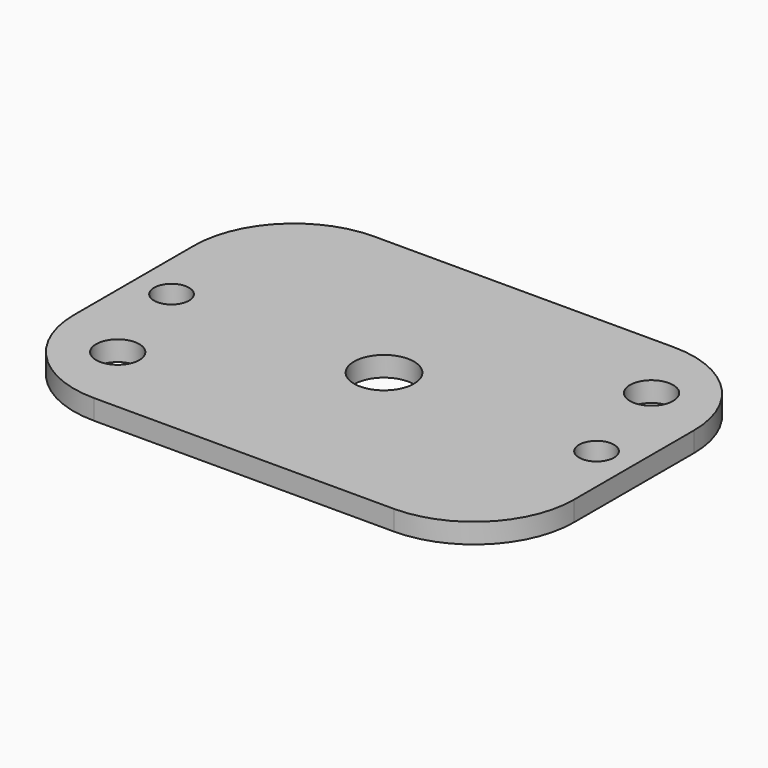
from build123d import *

# Parameters (mm, degrees)
F0_W      = 100
F0_H      = 70
F3_DEPTH  = 4
F2_R      = 4.322492
F4_DEPTH  = 5
F1_R      = 3.5
F5_DEPTH  = 5
F6_R      = 20
F7_R      = 20
F8_R      = 20
F9_R      = 20
F10_R     = 6
F11_DEPTH = 5


with BuildPart() as f3:
    # F0 (on Top) → F3 (new body)
    with BuildSketch(Plane.XY):
        Rectangle(F0_W, F0_H)
    extrude(amount=F3_DEPTH)

    # F2 (on Top) → F4 (cut)
    with BuildSketch(Plane.XY):
        with Locations((36.918391, 20.728212)):
            Circle(F2_R)
        with Locations((-36.812667, -20.548884)):
            Circle(F2_R)
    extrude(amount=F4_DEPTH, mode=Mode.SUBTRACT)

    # F1 (on face) → F5 (cut)
    with BuildSketch(Plane.XY):
        with Locations((-42.48777, 0)):
            Circle(F1_R)
        with Locations((42.51223, 0)):
            Circle(F1_R)
    extrude(amount=F5_DEPTH, mode=Mode.SUBTRACT)

    # F6
    f6_edges = [f3.edges().sort_by_distance(p)[0] for p in [
        (-50, -35, 2),
    ]]
    fillet(f6_edges, radius=F6_R)

    # F7
    f7_edges = [f3.edges().sort_by_distance(p)[0] for p in [
        (50, 35, 2),
    ]]
    fillet(f7_edges, radius=F7_R)

    # F8
    f8_edges = [f3.edges().sort_by_distance(p)[0] for p in [
        (50, -35, 2),
    ]]
    fillet(f8_edges, radius=F8_R)

    # F9
    f9_edges = [f3.edges().sort_by_distance(p)[0] for p in [
        (-50, 35, 2),
    ]]
    fillet(f9_edges, radius=F9_R)

    # F10 (on face) → F11 (cut)
    with BuildSketch(Plane(origin=(0, 0, 0), x_dir=(1, 0, 0), z_dir=(0, 0, -1))):
        Circle(F10_R)
    extrude(amount=-F11_DEPTH, mode=Mode.SUBTRACT)


solid = f3.part
